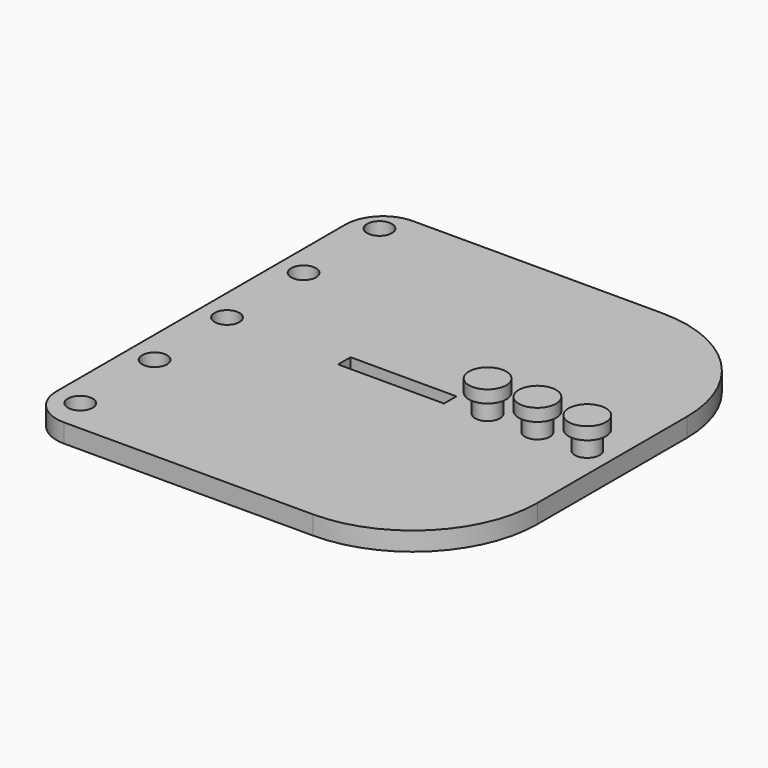
from build123d import *

# Parameters (mm, degrees)
F0_W      = 33
F0_H      = 35
F0_W_2    = 8.5
F0_H_2    = 1.25
F1_DEPTH  = 1.5
F2_R      = 1
F3_DEPTH  = 1.5
F4_R      = 3
F5_R      = 10
F6_R      = 1
F7_DEPTH  = 1.5
F8_R      = 1.5
F8_R_2    = 1
F9_DEPTH  = 1
F10_R     = 1.5
F10_R_2   = 1
F11_DEPTH = 1
F12_R     = 1.5
F12_R_2   = 1
F13_DEPTH = 1


with BuildPart() as f1:
    # F0 (on Top) → F1 (new body)
    with BuildSketch(Plane.XY):
        with Locations((5.4070419595, 0)):
            Rectangle(F0_W, F0_H)
        with Locations((4.6570419595, 0)):
            Rectangle(F0_W_2, F0_H_2, mode=Mode.SUBTRACT)
    extrude(amount=-F1_DEPTH)

    # F2 (on face) → F3 (cut)
    with BuildSketch(Plane.XY):
        with Locations((-9.0911619139, 15.4008569585)):
            Circle(F2_R)
        with Locations((-9.0490024113, 7.7360985084)):
            Circle(F2_R)
        with Locations((-9.0064505073, 0)):
            Circle(F2_R)
        with Locations((-8.9662096661, -7.3159384689)):
            Circle(F2_R)
        with Locations((-8.9248921722, -14.8276165128)):
            Circle(F2_R)
    extrude(amount=-F3_DEPTH, mode=Mode.SUBTRACT)

    # F4
    f4_edges = [f1.edges().sort_by_distance(p)[0] for p in [
        (-11.092958, -17.5, -0.75),
        (-11.092958, 17.5, -0.75),
    ]]
    fillet(f4_edges, radius=F4_R)

    # F5
    f5_edges = [f1.edges().sort_by_distance(p)[0] for p in [
        (21.907042, 17.5, -0.75),
        (21.907042, -17.5, -0.75),
    ]]
    fillet(f5_edges, radius=F5_R)

    # F6 (on face) → F7 (join)
    with BuildSketch(Plane.XY):
        with Locations((11.9070419595, 0)):
            Circle(F6_R)
        with Locations((15.9070419595, 0)):
            Circle(F6_R)
        with Locations((19.9070419595, 0)):
            Circle(F6_R)
    extrude(amount=F7_DEPTH)

    # F8 (on face) → F9 (join)
    with BuildSketch(Plane.XY.offset(1.5)):
        with Locations((11.9070419595, 0)):
            Circle(F8_R)
        with Locations((11.9070419595, 0)):
            Circle(F8_R_2, mode=Mode.SUBTRACT)
        with Locations((11.9070419595, 0)):
            Circle(F8_R_2)
    extrude(amount=F9_DEPTH)

    # F10 (on face) → F11 (join)
    with BuildSketch(Plane.XY.offset(1.5)):
        with Locations((15.9070419595, 0)):
            Circle(F10_R)
        with Locations((15.9070419595, 0)):
            Circle(F10_R_2, mode=Mode.SUBTRACT)
        with Locations((15.9070419595, 0)):
            Circle(F10_R_2)
    extrude(amount=F11_DEPTH)

    # F12 (on face) → F13 (join)
    with BuildSketch(Plane.XY.offset(1.5)):
        with Locations((19.9070419595, 0)):
            Circle(F12_R)
        with Locations((19.9070419595, 0)):
            Circle(F12_R_2, mode=Mode.SUBTRACT)
        with Locations((19.9070419595, 0)):
            Circle(F12_R_2)
    extrude(amount=F13_DEPTH)


solid = f1.part
